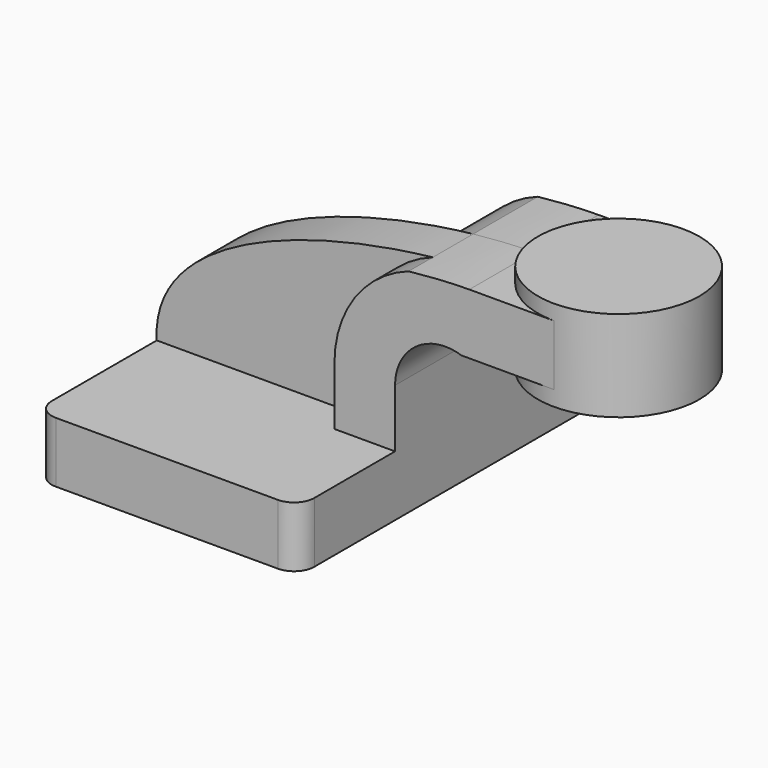
from build123d import *

# Parameters (mm, degrees)
F2_DEPTH = 63.5
F0_W     = 25.4
F0_H     = 19.05
F3_DEPTH = 25.4
F4_DEPTH = 15.875
F6_R     = 6.35


with BuildPart() as f2:
    # F0 (on Front) → F2 (new body, symmetric)
    with BuildSketch(Plane.XZ):
        Polygon((41.275, -9.525), (41.275, 9.525), (22.225, 9.525), (-41.275, 9.525), (-41.275, -9.525), align=None)
    extrude(amount=F2_DEPTH, both=True)

    # F0 (on Front) → F3 (join, symmetric)
    with BuildSketch(Plane.XZ):
        with BuildLine():
            Line((22.225, 9.525), (41.275, 9.525))
            Line((41.275, 9.525), (41.275, 27.8116355362))
            ThreePointArc((41.275, 27.8116355362), (47.8635941937, 40.687127457), (62.1604541356, 42.8752))
            Line((62.1604541356, 42.8752), (65.8578989433, 42.8752))
            Line((65.8578989433, 42.8752), (65.8578989433, 61.9252))
            Line((65.8578989433, 61.9252), (64.6346739792, 61.9252))
            add(Edge.make_bspline(
                [(45.5270235405, 60.7458433333), (52.3723696476, 61.4954040628), (58.8590897822, 61.881438389), (64.6346739792, 61.9252)],
                knots=[100.3734396269, 100.3734396269, 100.3734396269, 100.3734396269, 118.1636153916, 118.1636153916, 118.1636153916, 118.1636153916], degree=3))
            ThreePointArc((45.5270235405, 60.7458433333), (28.6395801693, 47.9836851612), (22.225, 27.8116355362))
            Line((22.225, 27.8116355362), (22.225, 9.525))
        make_face()
        with Locations((78.5578989433, 52.4002)):
            Rectangle(F0_W, F0_H)
    extrude(amount=F3_DEPTH, both=True)

    # F0 (on Front) → F4 (join)
    with BuildSketch(Plane.XZ):
        with BuildLine():
            Line((-41.275, 9.525), (22.225, 9.525))
            Line((22.225, 9.525), (22.225, 27.8116355362))
            ThreePointArc((22.225, 27.8116355362), (28.6395801693, 47.9836851612), (45.5270235405, 60.7458433333))
            add(Edge.make_bspline(
                [(-41.275, 9.525), (-43.1329669125, 40.7155687562), (6.9050929142, 56.5167682736), (45.5270235405, 60.7458433333)],
                knots=[0, 0, 0, 0, 100.3734396269, 100.3734396269, 100.3734396269, 100.3734396269], degree=3))
        make_face()
    extrude(amount=F4_DEPTH)

    # F6
    f6_edges = [f2.edges().sort_by_distance(p)[0] for p in [
        (41.275, -63.5, 0),
        (-41.275, -63.5, 0),
        (-41.275, 63.5, 0),
        (41.275, 63.5, 0),
    ]]
    fillet(f6_edges, radius=F6_R)


with BuildPart() as f5:
    # F0 (on Front) → F5 (revolve)
    with BuildSketch(Plane.XZ):
        Polygon((91.2578989433, 61.9252), (91.2578989433, 42.8752), (91.2578989433, 38.1), (116.6578989433, 38.1), (116.6578989433, 66.675), (91.2578989433, 66.675), align=None)
    revolve(axis=Axis((91.2578989433, 0, 52.3875), (0, 0, 1)))


solid = Compound([f2.part, f5.part])
